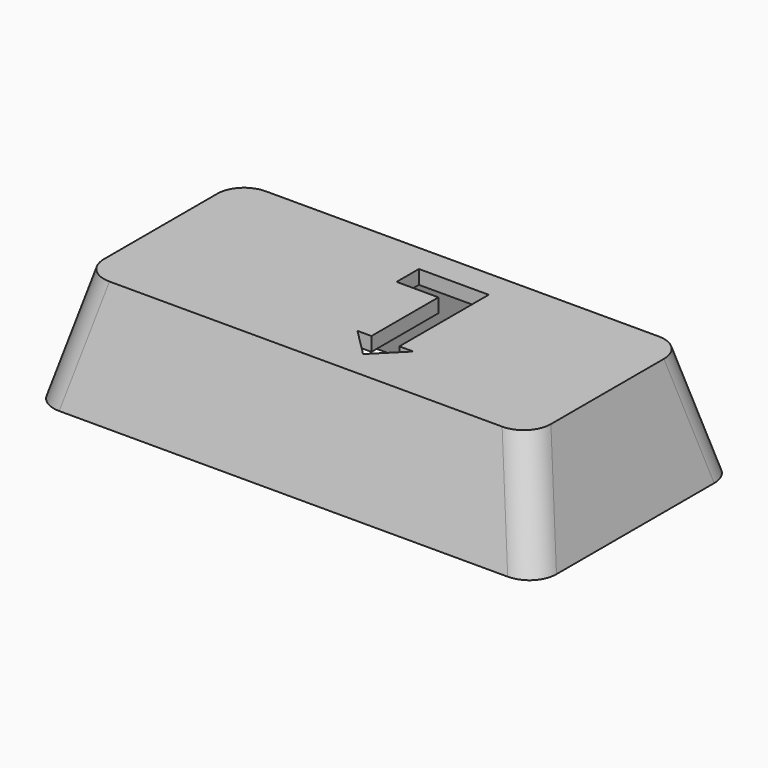
from build123d import *

# Parameters (mm, degrees)
SKETCH_W             = 36
SKETCH_H             = 18
PAD_DEPTH            = 8
POCKET_DEPTH         = 18.001
POCKET001_DEPTH      = 18.001
POCKET001_DEPTH_BACK = 18.001
FILLET_R             = 2
THICKNESS_T          = -1
POCKET002_DEPTH      = 1


with BuildPart() as part:
    # Sketch → Pad (new body)
    with BuildSketch(Plane.XY):
        Rectangle(SKETCH_W, SKETCH_H)
    extrude(amount=PAD_DEPTH)

    # Sketch001 (on Face1 of Pad) → Pocket (cut, through all)
    with BuildSketch(Plane.XZ.offset(9)):
        Polygon((-18, 8), (-18, 0), (-16, 8), align=None)
        Polygon((18, 8), (18, 0), (16, 8), align=None)
    extrude(amount=-POCKET_DEPTH, mode=Mode.SUBTRACT)

    # Sketch002 → Pocket001 (cut, two sides)
    with BuildSketch(Plane.YZ) as pocket001_sk:
        Polygon((-9, 8), (-7, 8), (-9, 0), align=None)
        Polygon((9, 8), (7, 8), (9, 0), align=None)
    extrude(amount=-POCKET001_DEPTH, mode=Mode.SUBTRACT)
    extrude(pocket001_sk.sketch, amount=POCKET001_DEPTH_BACK, mode=Mode.SUBTRACT)

    # Fillet
    fillet_edges = [part.edges().sort_by_distance(p)[0] for p in [
        (-17, 8, 4),
        (-17, -8, 4),
        (17, -8, 4),
        (17, 8, 4),
    ]]
    fillet(fillet_edges, radius=FILLET_R)

    # Thickness
    thickness_openings = [part.faces().sort_by_distance(p)[0] for p in [
        (0, 0, 0),
    ]]
    offset(amount=THICKNESS_T, openings=thickness_openings, kind=Kind.INTERSECTION)

    # Sketch004 (on Face9 of Thickness) → Pocket002 (cut)
    with BuildSketch(Plane.XY.offset(8)):
        Polygon((-1.5, 3), (1.5, 3), (1.5, -3), (0.5, -3), (2.5, -5), (4.5, -3), (3.5, -3), (3.5, 5), (-1.5, 5), align=None)
    extrude(amount=-POCKET002_DEPTH, mode=Mode.SUBTRACT)


solid = part.part
